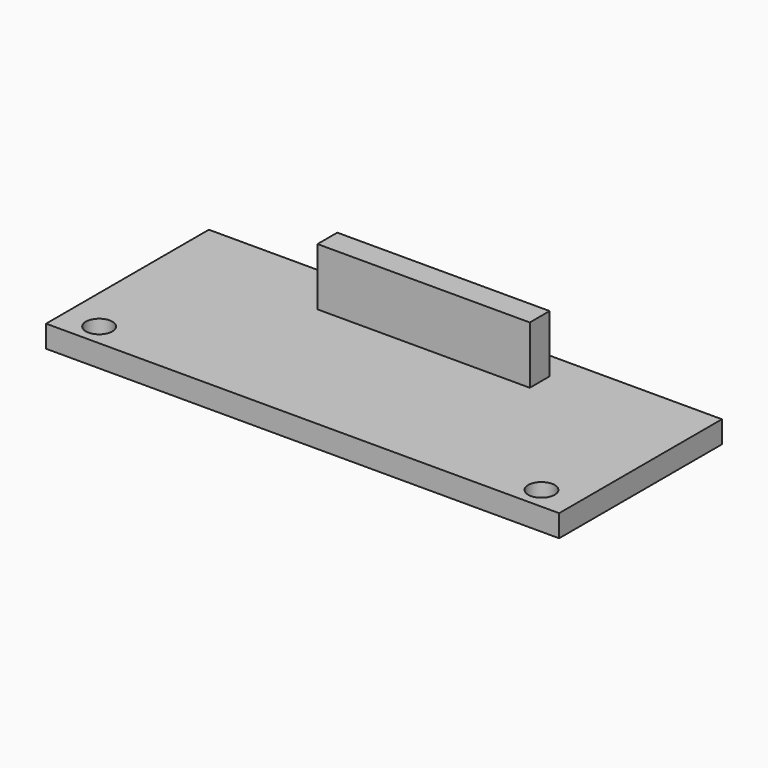
from build123d import *

# Parameters (mm, degrees)
F0_W     = 58
F0_H     = 23
F0_R     = 1.5
F1_DEPTH = 2.5
F2_W     = 24
F2_H     = 2.8
F3_DEPTH = 6.5


with BuildPart() as f1:
    # F0 (on Top) → F1 (new body)
    with BuildSketch(Plane.XY):
        Rectangle(F0_W, F0_H)
        with Locations((-25, -9)):
            Circle(F0_R, mode=Mode.SUBTRACT)
        with Locations((25, -9)):
            Circle(F0_R, mode=Mode.SUBTRACT)
    extrude(amount=F1_DEPTH)

    # F2 (on face) → F3 (join)
    with BuildSketch(Plane.XY.offset(2.5)):
        with Locations((0, 7)):
            Rectangle(F2_W, F2_H)
    extrude(amount=F3_DEPTH)


solid = f1.part
